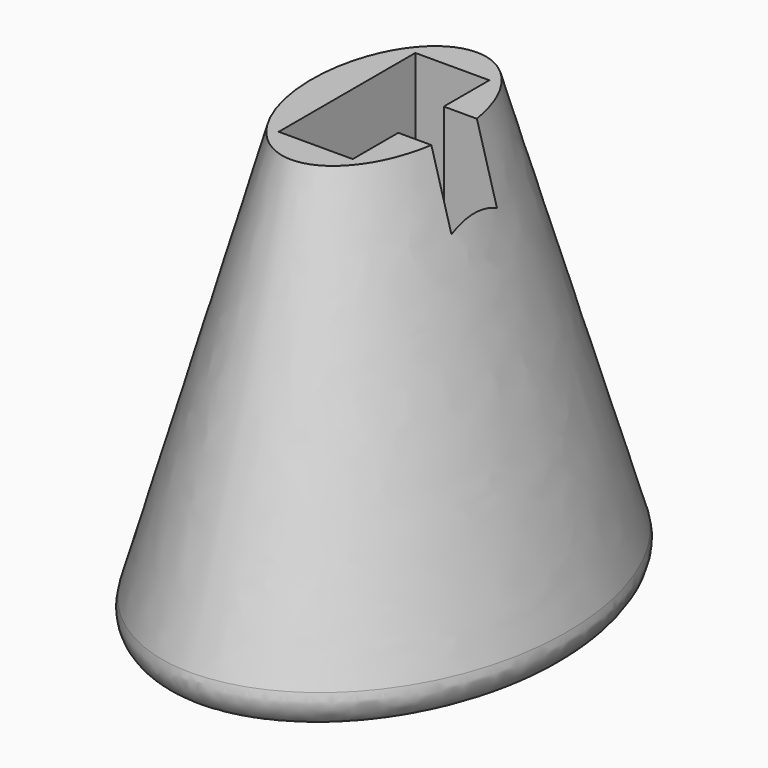
from build123d import *

# Parameters (mm, degrees)
F5_DEPTH = 14
F9_R     = 1


with BuildPart() as f3:
    # F0 (on Top) → F3 section 0
    with BuildSketch(Plane.XY):
        with BuildLine():
            add(Edge.make_bspline(
                [(0, -8.7897358462), (11.5402518215, -8.7897358462), (5.7701259108, 4.3948679231), (0, 17.5794716924), (-5.7701259108, 4.3948679231), (-11.5402518215, -8.7897358462), (0, -8.7897358462)],
                knots=[0, 0, 0, 2.0943951024, 2.0943951024, 4.1887902048, 4.1887902048, 6.2831853072, 6.2831853072, 6.2831853072], degree=2, weights=[1, 0.5, 1, 0.5, 1, 0.5, 1]))
        make_face()
    # F2 (on offset) → F3 section 1
    with BuildSketch(Plane.XY.offset(15)):
        with BuildLine():
            add(Edge.make_bspline(
                [(0, -4.0815188549), (4.401577937, -4.0815188549), (2.2007889685, 2.0407594275), (0, 8.1630377099), (-2.2007889685, 2.0407594275), (-4.401577937, -4.0815188549), (0, -4.0815188549)],
                knots=[0, 0, 0, 2.0943951024, 2.0943951024, 4.1887902048, 4.1887902048, 6.2831853072, 6.2831853072, 6.2831853072], degree=2, weights=[1, 0.5, 1, 0.5, 1, 0.5, 1]))
        make_face()
    loft()

    # F4 (on face) → F5 (cut)
    with BuildSketch(Plane.XY.offset(15)):
        with BuildLine():
            Line((-1.3, -3), (1.3, -3))
            Line((1.3, -3), (1.3, -1))
            Line((1.3, -1), (2.4637982764, -1))
            add(Edge.make_bspline(
                [(2.4637982764, -1), (2.6211410408, 0), (2.4637982764, 1)],
                knots=[1.2991695843, 1.2991695843, 1.2991695843, 1.7833776086, 1.7833776086, 1.7833776086], degree=2, weights=[0.7644739628, 0.7922881963, 0.87355231]))
            Line((2.4637982764, 1), (1.3, 1))
            Line((1.3, 1), (1.3, 3))
            Line((1.3, 3), (-1.3, 3))
            Line((-1.3, 3), (-1.3, -3))
        make_face()
        with BuildLine():
            add(Edge.make_bspline(
                [(2.4637982764, -1), (2.6211410408, 0), (2.4637982764, 1)],
                knots=[1.2991695843, 1.2991695843, 1.2991695843, 1.7833776086, 1.7833776086, 1.7833776086], degree=2, weights=[0.7644739628, 0.7922881963, 0.87355231]))
            Line((2.4637982764, -1), (3.1689636383, -1))
            Line((3.1689636383, -1), (3.1689636383, 1))
            Line((3.1689636383, 1), (2.4637982764, 1))
        make_face()
    extrude(amount=-F5_DEPTH, mode=Mode.SUBTRACT)

    # F3_face1 (on face) → F8 section 0
    with BuildSketch(Plane(origin=(0, -0.0106644613, 0), x_dir=(1, 0, 0), z_dir=(0, 0, -1)), mode=Mode.PRIVATE) as f8_s0:
        with BuildLine():
            add(Edge.make_bspline(
                [(0, 8.7790713849), (11.5402518215, 8.7790713849), (5.7701259108, -4.4055323845), (0, -17.5901361538), (-5.7701259108, -4.4055323845), (-11.5402518215, 8.7790713849), (0, 8.7790713849)],
                knots=[0, 0, 0, 2.0943951024, 2.0943951024, 4.1887902048, 4.1887902048, 6.2831853072, 6.2831853072, 6.2831853072], degree=2, weights=[1, 0.5, 1, 0.5, 1, 0.5, 1]))
        make_face()
    loft([f8_s0.sketch, Vertex(0, 0, -3)])

    # F9
    f9_edges = [f3.edges().sort_by_distance(p)[0] for p in [
        (0, 8.789736, 0),
        (0, -4.39487, -1.499999),
    ]]
    fillet(f9_edges, radius=F9_R)


solid = f3.part
